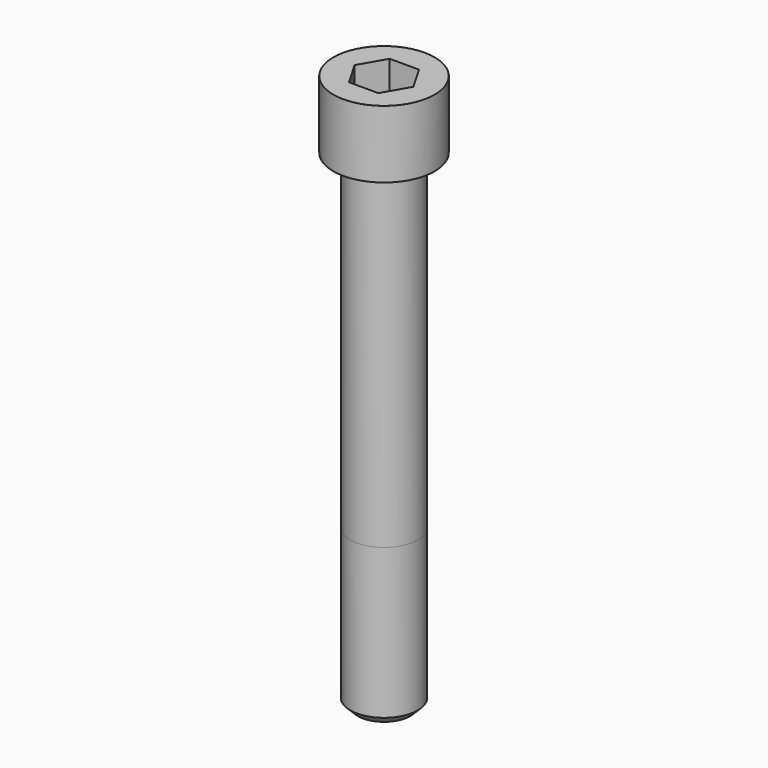
from build123d import *

# Parameters (mm, degrees)
POCKET_DEPTH = 27.15


with BuildPart() as part:
    # Sketch → Revolve (revolve)
    with BuildSketch(Plane.YZ):
        with BuildLine():
            Line((17.999, 0), (27, 0))
            Line((27, 0), (27, 35.97229))
            ThreePointArc((27, 35.97229), (26.991884, 35.991884), (26.97229, 36))
            Line((26.97229, 36), (0, 36))
            Line((0, -260), (0, 36))
            Line((14, -260), (0, -260))
            Line((18, -256), (14, -260))
            Line((18, -176), (18, -256))
            Line((17.999, 0), (18, -176))
        make_face()
    revolve(axis=Axis((0, 0, 0), (0, 0, 1)))

    # Sketch001 → Pocket (cut)
    with BuildSketch(Plane.XY.offset(36)):
        Polygon((15.67506, 0), (7.83753, 13.575), (-7.83753, 13.575), (-15.67506, 0), (-7.83753, -13.575), (7.83753, -13.575), align=None)
    extrude(amount=-POCKET_DEPTH, mode=Mode.SUBTRACT)


solid = part.part
